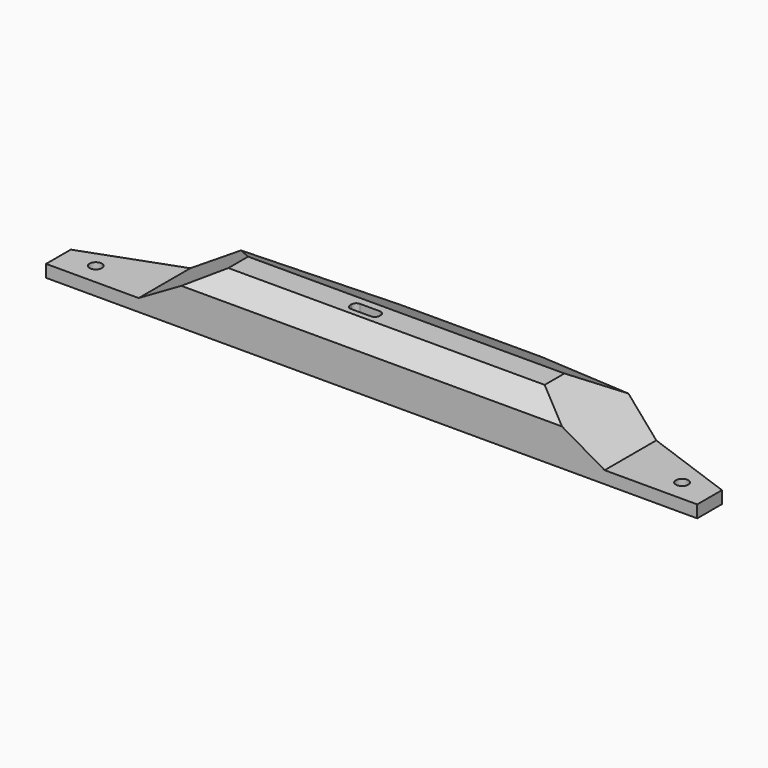
from build123d import *

# Parameters (mm, degrees)
SKETCH002_R       = 2
PAD_DEPTH         = 18
PAD001_DEPTH      = 100
SKETCH007_W       = 40
SKETCH007_H       = 36
PAD004_DEPTH      = 1.5
SKETCH008_W       = 70
SKETCH008_H       = 22
PAD005_DEPTH      = 10
SKETCH009_W       = 56
SKETCH009_H       = 8
PAD006_DEPTH      = 2
SKETCH010_W       = 26.7
SKETCH010_H       = 2.6
PAD007_DEPTH      = 15
PAD008_DEPTH      = 20
PAD008_DEPTH_BACK = 20
SKETCH013_W       = 56
SKETCH013_H       = 8
PAD009_DEPTH      = 2
PAD002_DEPTH      = 120
PAD002_DEPTH_BACK = 120
FILLET_R          = 1
FILLET001_R       = 1
FILLET002_R       = 1
FILLET003_R       = 1
FILLET004_R       = 1


with BuildPart() as body:
    # Sketch002 → Pad (new body)
    with BuildSketch(Plane.XY):
        Polygon((-105.5, -52), (105.5, -52), (105.5, -42), (23.075677, -12), (-23.075677, -12), (-105.5, -42), align=None)
        with Locations((-95, -45)):
            Circle(SKETCH002_R, mode=Mode.SUBTRACT)
        with Locations((95, -45)):
            Circle(SKETCH002_R, mode=Mode.SUBTRACT)
    extrude(amount=PAD_DEPTH)


with BuildPart() as body001:
    # Sketch → Pad001 (new body)
    with BuildSketch(Plane.XZ):
        Polygon((-105.5, 0), (-105.5, 4), (-75.5, 4), (-51.251289, 18), (51.251289, 18), (75.5, 4), (105.5, 4), (105.5, 0), align=None)
    extrude(amount=PAD001_DEPTH)

    # Boolean: intersect Body
    add(body.part, mode=Mode.INTERSECT)


with BuildPart() as body004:
    # Sketch007 → Pad004 (new body)
    with BuildSketch(Plane.XY):
        with Locations((0, -32)):
            Rectangle(SKETCH007_W, SKETCH007_H)
    extrude(amount=PAD004_DEPTH)


with BuildPart() as body005:
    # Sketch008 → Pad005 (new body)
    with BuildSketch(Plane.XY):
        with Locations((0, -39)):
            Rectangle(SKETCH008_W, SKETCH008_H)
    extrude(amount=PAD005_DEPTH)


with BuildPart() as body006:
    # Sketch009 → Pad006 (new body)
    with BuildSketch(Plane.XY):
        with Locations((62, -45)):
            Rectangle(SKETCH009_W, SKETCH009_H)
    extrude(amount=PAD006_DEPTH)


with BuildPart() as body007:
    # Sketch010 → Pad007 (new body)
    with BuildSketch(Plane.XY):
        with Locations((-1.35, -40.3)):
            Rectangle(SKETCH010_W, SKETCH010_H)
    extrude(amount=PAD007_DEPTH)


with BuildPart() as body007_1:
    # Body007 placement: moved
    add(body007.part.moved(Location((0, -3.5, 1))))


with BuildPart() as body008:
    # Sketch011 → Pad008 (new body, two sides)
    with BuildSketch(Plane.XY) as pad008_sk:
        with BuildLine():
            ThreePointArc((-13, -37), (-14.06066, -37.43934), (-14.5, -38.5))
            Line((-14.5, -39.1), (-14.5, -38.5))
            ThreePointArc((-14.5, -39.1), (-14.06066, -40.16066), (-13, -40.6))
            Line((-6.5, -40.6), (-13, -40.6))
            ThreePointArc((-6.5, -40.6), (-5.43934, -40.16066), (-5, -39.1))
            Line((-5, -38.5), (-5, -39.1))
            ThreePointArc((-5, -38.5), (-5.43934, -37.43934), (-6.5, -37))
            Line((-13, -37), (-6.5, -37))
        make_face()
    extrude(amount=PAD008_DEPTH)
    extrude(pad008_sk.sketch, amount=-PAD008_DEPTH_BACK)


with BuildPart() as body008_1:
    # Body008 placement: moved
    add(body008.part.moved(Location((0, -3.5, 11))))


with BuildPart() as body009:
    # Sketch013 → Pad009 (new body)
    with BuildSketch(Plane.XY):
        with Locations((-62, -45)):
            Rectangle(SKETCH013_W, SKETCH013_H)
    extrude(amount=PAD009_DEPTH)


with BuildPart() as back:
    # Sketch003 → Pad002 (new body, two sides)
    with BuildSketch(Plane.YZ) as pad002_sk:
        Polygon((-12, 0), (-12, 3), (-37.980762, 18), (-45.980762, 18), (-52, 11.980762), (-52, 0), align=None)
    extrude(amount=PAD002_DEPTH)
    extrude(pad002_sk.sketch, amount=-PAD002_DEPTH_BACK)

    # Boolean001: intersect Body001
    add(body001.part, mode=Mode.INTERSECT)

    # Boolean002: cut Body004
    add(body004.part, mode=Mode.SUBTRACT)

    # Boolean003: cut Body005
    add(body005.part, mode=Mode.SUBTRACT)

    # Boolean004: cut Body006
    add(body006.part, mode=Mode.SUBTRACT)

    # Boolean005: cut Body007
    add(body007_1.part, mode=Mode.SUBTRACT)

    # Boolean006: cut Body008
    add(body008_1.part, mode=Mode.SUBTRACT)

    # Fillet
    fillet_edges = [back.edges().sort_by_distance(p)[0] for p in [
        (20, -21, 1.5),
    ]]
    fillet(fillet_edges, radius=FILLET_R)

    # Fillet001
    fillet001_edges = [back.edges().sort_by_distance(p)[0] for p in [
        (90, -45, 2),
    ]]
    fillet(fillet001_edges, radius=FILLET001_R)

    # Fillet002
    fillet002_edges = [back.edges().sort_by_distance(p)[0] for p in [
        (62, -41, 2),
    ]]
    fillet(fillet002_edges, radius=FILLET002_R)

    # Fillet003
    fillet003_edges = [back.edges().sort_by_distance(p)[0] for p in [
        (62, -49, 2),
    ]]
    fillet(fillet003_edges, radius=FILLET003_R)

    # Boolean007: cut Body009
    add(body009.part, mode=Mode.SUBTRACT)

    # Fillet004
    fillet004_edges = [back.edges().sort_by_distance(p)[0] for p in [
        (-62.5, -41, 2),
        (-62.5, -49, 2),
        (-90, -45, 2),
    ]]
    fillet(fillet004_edges, radius=FILLET004_R)


solid = back.part
